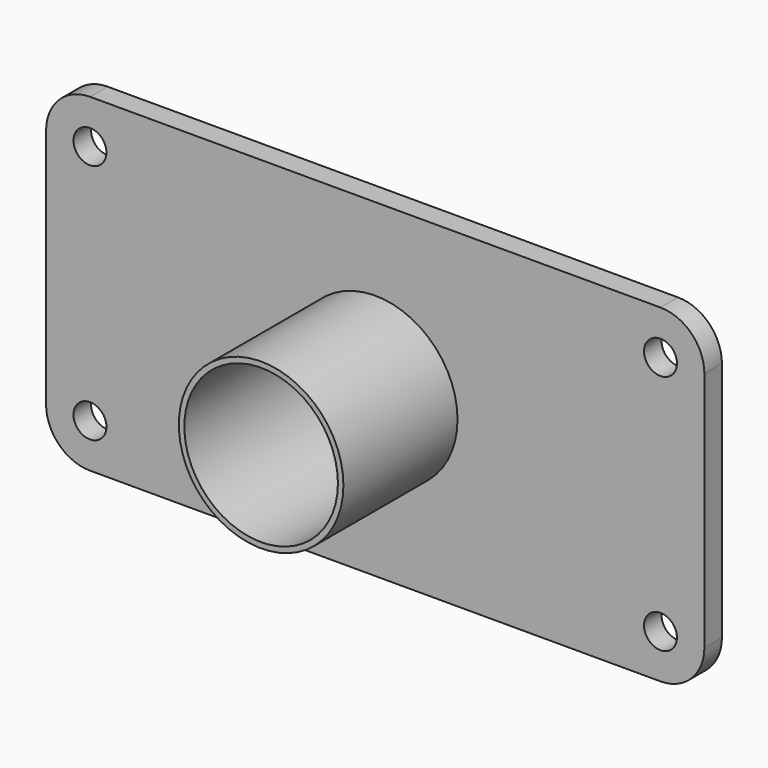
from build123d import *

# Parameters (mm, degrees)
F0_R     = 7.5
F0_R_2   = 37.5
F1_DEPTH = 5
F0_R_3   = 35
F2_DEPTH = 70


with BuildPart() as f1:
    # F0 (on Front) → F1 (new body, symmetric)
    with BuildSketch(Plane.XZ):
        with BuildLine():
            ThreePointArc((150, 55), (144.1421356237, 69.1421356237), (130, 75))
            Line((130, 75), (-130, 75))
            ThreePointArc((-130, 75), (-144.1421356237, 69.1421356237), (-150, 55))
            Line((-150, 55), (-150, -55))
            ThreePointArc((-150, -55), (-144.1421356237, -69.1421356237), (-130, -75))
            Line((-130, -75), (130, -75))
            ThreePointArc((130, -75), (144.1421356237, -69.1421356237), (150, -55))
            Line((150, -55), (150, 55))
        make_face()
        with Locations((-130, -55)):
            Circle(F0_R, mode=Mode.SUBTRACT)
        with Locations((130, -55)):
            Circle(F0_R, mode=Mode.SUBTRACT)
        with Locations((-130, 55)):
            Circle(F0_R, mode=Mode.SUBTRACT)
        Circle(F0_R_2, mode=Mode.SUBTRACT)
        with Locations((130, 55)):
            Circle(F0_R, mode=Mode.SUBTRACT)
    extrude(amount=F1_DEPTH, both=True)

    # F0 (on Front) → F2 (join)
    with BuildSketch(Plane.XZ):
        Circle(F0_R_2)
        Circle(F0_R_3, mode=Mode.SUBTRACT)
    extrude(amount=F2_DEPTH)


solid = f1.part
